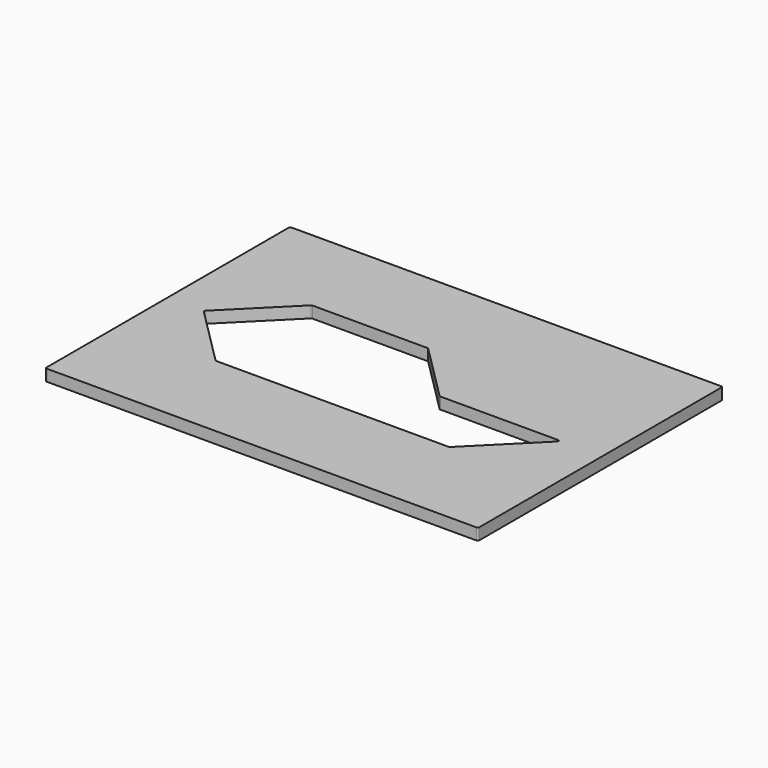
from build123d import *

# Parameters (mm, degrees)
F1_DEPTH = 6.35
F3_DEPTH = 25.4
F5_DEPTH = 25.4


with BuildPart() as f1:
    # F0 (on Top) → F1 (new body)
    with BuildSketch(Plane.XY):
        with BuildLine():
            Line((118.2751, 84.1375), (-118.2751, 84.1375))
            ThreePointArc((-118.2751, 84.1375), (-118.831876, 83.906876), (-119.0625, 83.3501))
            Line((-119.0625, 83.3501), (-119.0625, -83.3501))
            ThreePointArc((-119.0625, -83.3501), (-118.831876, -83.906876), (-118.2751, -84.1375))
            Line((-118.2751, -84.1375), (118.2751, -84.1375))
            ThreePointArc((118.2751, -84.1375), (118.831876, -83.906876), (119.0625, -83.3501))
            Line((119.0625, -83.3501), (119.0625, 83.3501))
            ThreePointArc((119.0625, 83.3501), (118.831876, 83.906876), (118.2751, 84.1375))
        make_face()
    extrude(amount=F1_DEPTH)

    # F2 (on face) → F3 (cut)
    with BuildSketch(Plane.XY.offset(6.35)):
        Polygon((-2.690393, 31.790107), (-65.682393, 31.790107), (-97.4725, 0), (-65.682393, -31.790107), (61.825607, -31.790107), (93.615713, 0), (29.099713, 0), align=None)
    extrude(amount=-F3_DEPTH, mode=Mode.SUBTRACT)

    # F4 (on face) → F5 (cut)
    with BuildSketch(Plane.XY.offset(6.35)):
        with BuildLine():
            ThreePointArc((29.951916, 1.27), (29.650591, 1.329937), (29.39514, 1.500624))
            Line((29.39514, 1.500624), (-1.933718, 32.829483))
            ThreePointArc((-1.933718, 32.829483), (-2.189169, 33.000169), (-2.490494, 33.060107))
            Line((-2.490494, 33.060107), (-65.882293, 33.060107))
            ThreePointArc((-65.882293, 33.060107), (-66.183618, 33.000169), (-66.439069, 32.829483))
            Line((-66.439069, 32.829483), (-98.711775, 0.556776))
            ThreePointArc((-98.711775, 0.556776), (-98.942399, 0), (-98.711775, -0.556776))
            Line((-98.711775, -0.556776), (-66.439069, -32.829483))
            ThreePointArc((-66.439069, -32.829483), (-66.183618, -33.000169), (-65.882293, -33.060107))
            Line((-65.882293, -33.060107), (62.025506, -33.060107))
            ThreePointArc((62.025506, -33.060107), (62.326831, -33.000169), (62.582282, -32.829483))
            Line((62.582282, -32.829483), (95.337589, -0.074176))
            ThreePointArc((95.337589, -0.074176), (95.508276, 0.783925), (94.780813, 1.27))
            Line((94.780813, 1.27), (29.951916, 1.27))
        make_face()
    extrude(amount=-F5_DEPTH, mode=Mode.SUBTRACT)


solid = f1.part
